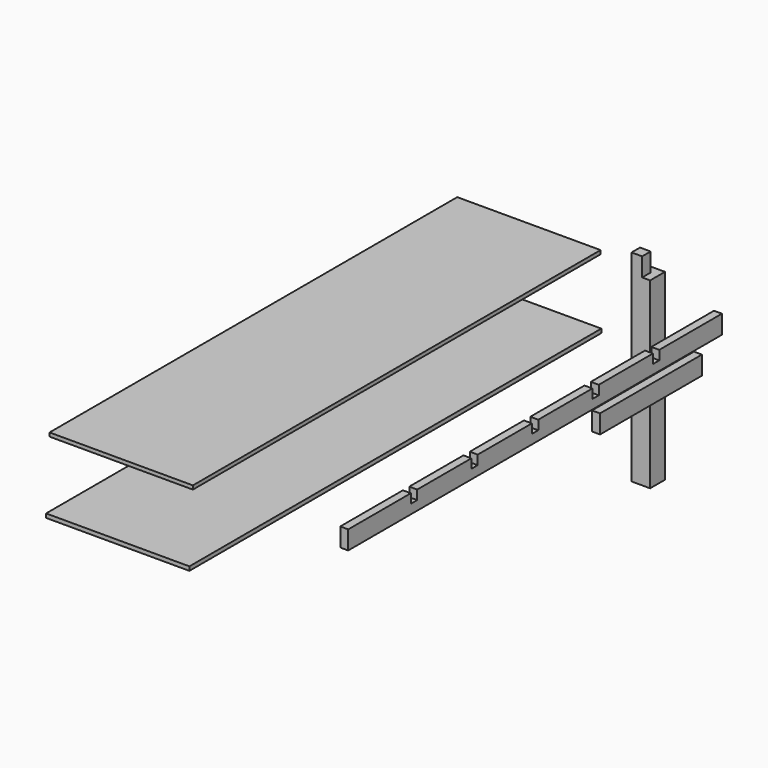
from build123d import *

# Parameters (mm, degrees)
F1_DEPTH  = 88.9
F2_W      = 38.1
F2_H      = 88.9
F3_DEPTH  = 50.8
F4_W      = 38.1
F4_H      = 88.9
F5_DEPTH  = 2235.2
F7_W      = 38.1
F7_H      = 88.9
F8_DEPTH  = 609.6
F9_W      = 685.8
F9_H      = 19.05
F10_DEPTH = 2463.8
F6_W      = 38.1
F6_H      = 44.45
F11_DEPTH = 38.1
F12_W     = 38.1
F12_H     = 88.9
F13_DEPTH = 558.8
F14_W     = 38.1
F14_H     = 44.45
F15_DEPTH = 38.1
F16_W     = 685.8
F16_H     = 17.8562
F17_DEPTH = 2438.4


with BuildPart() as f1:
    # F0 (on Front) → F1 (new body)
    with BuildSketch(Plane.XZ):
        Polygon((-17.0468537569, -518.6711472642), (-17.0468537569, 357.2351527358), (-55.1468537569, 357.2351527358), (-55.1468537569, 446.1351527358), (-105.9468537569, 446.1351527358), (-105.9468537569, -518.6711472642), align=None)
    extrude(amount=F1_DEPTH)

    # F2 (on face) → F3 (cut, through all)
    with BuildSketch(Plane.YZ.offset(-55.1468537569)):
        with Locations((-19.05, 401.6851527358)):
            Rectangle(F2_W, F2_H)
    extrude(amount=-F3_DEPTH, mode=Mode.SUBTRACT)


with BuildPart() as f5:
    # F4 (on Front) → F5 (new body)
    with BuildSketch(Plane.XZ):
        with Locations((236.3417492897, 225.0739336014)):
            Rectangle(F4_W, F4_H)
    extrude(amount=F5_DEPTH)

    # F6 (on face) → F11 (cut, through all)
    with BuildSketch(Plane.YZ.offset(255.3917492897)):
        with Locations((-1841.5, 247.2989336014)):
            Rectangle(F6_W, F6_H)
        with Locations((-1479.55, 247.2989336014)):
            Rectangle(F6_W, F6_H)
        with Locations((-1117.6, 247.2989336014)):
            Rectangle(F6_W, F6_H)
        with Locations((-755.65, 247.2989336014)):
            Rectangle(F6_W, F6_H)
        with Locations((-393.7, 247.2989336014)):
            Rectangle(F6_W, F6_H)
    extrude(amount=-F11_DEPTH, mode=Mode.SUBTRACT)


with BuildPart() as f8:
    # F7 (on Front) → F8 (new body)
    with BuildSketch(Plane.XZ):
        with Locations((140.6347565353, 21.7243745106)):
            Rectangle(F7_W, F7_H)
    extrude(amount=F8_DEPTH)


with BuildPart() as f10:
    # F9 (on Front) → F10 (new body)
    with BuildSketch(Plane.XZ):
        with Locations((-664.5654184074, 9.525)):
            Rectangle(F9_W, F9_H)
    extrude(amount=F10_DEPTH)


with BuildPart() as f13:
    # F12 (on Front) → F13 (new body)
    with BuildSketch(Plane.XZ):
        with Locations((-688.6338591576, -156.9873003576)):
            Rectangle(F12_W, F12_H)
    extrude(amount=F13_DEPTH)

    # F14 (on face) → F15 (cut, through all)
    with BuildSketch(Plane.YZ.offset(-669.5838591576)):
        with Locations((-539.75, -179.2123003576)):
            Rectangle(F14_W, F14_H)
        with Locations((-19.05, -179.2123003576)):
            Rectangle(F14_W, F14_H)
    extrude(amount=-F15_DEPTH, mode=Mode.SUBTRACT)


with BuildPart() as f17:
    # F16 (on Front) → F17 (new body)
    with BuildSketch(Plane.XZ):
        with Locations((-668.230175972, 339.6906721428)):
            Rectangle(F16_W, F16_H)
    extrude(amount=F17_DEPTH)


solid = Compound([f1.part, f5.part, f8.part, f10.part, f13.part, f17.part])
